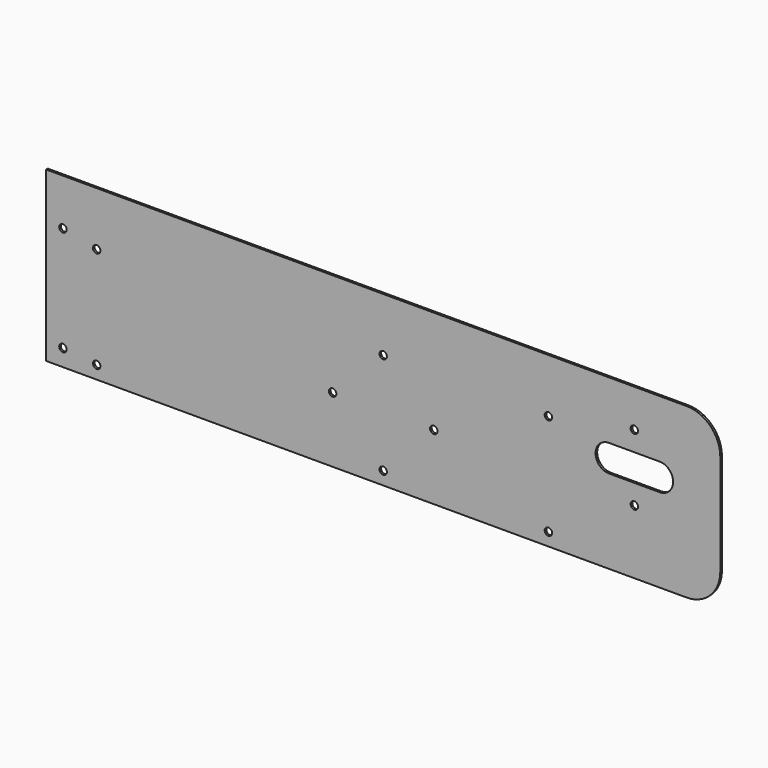
from build123d import *

# Parameters (mm, degrees)
F0_W     = 1000
F0_H     = 250
F1_DEPTH = 1.5
F3_D     = 11
F3_DEPTH = 18
F3_TIP   = 3.3047334047
F4_R     = 5.5
F5_DEPTH = 3.001
F6_R     = 50


with BuildPart() as f1:
    # F0 (on Front) → F1 (new body, symmetric)
    with BuildSketch(Plane.XZ):
        Rectangle(F0_W, F0_H)
    extrude(amount=F1_DEPTH, both=True)

    # F3
    with Locations(Plane.XZ.offset(1.5)):
        with Locations((-475, 56.2), (-475, -100), (-425, -105.7), (-425, 45.1), (-75, -28), (75, -28), (0, -105.7), (0, 45.1), (245, 45.1), (245, -105.7)):
            Hole(F3_D / 2, depth=F3_DEPTH)
            with Locations((0, 0, -(F3_DEPTH + F3_TIP / 2))):  # 118° drill point
                Cone(0, F3_D / 2, F3_TIP, mode=Mode.SUBTRACT)

    # F4 (on face) → F5 (cut, through all)
    with BuildSketch(Plane(origin=(0, 1.5, 0), x_dir=(-1, 0, 0), z_dir=(0, 1, 0))):
        with Locations((-372.5, -30)):
            Circle(F4_R)
        with Locations((-372.5, 69)):
            Circle(F4_R)
        with BuildLine():
            ThreePointArc((-410, 39.5), (-430, 19.5), (-410, -0.5))
            Line((-410, -0.5), (-335, -0.5))
            ThreePointArc((-335, -0.5), (-315, 19.5), (-335, 39.5))
            Line((-335, 39.5), (-410, 39.5))
        make_face()
    extrude(amount=-F5_DEPTH, mode=Mode.SUBTRACT)

    # F6
    f6_edges = [f1.edges().sort_by_distance(p)[0] for p in [
        (500, 0, 125),
        (500, 0, -125),
    ]]
    fillet(f6_edges, radius=F6_R)


solid = f1.part
